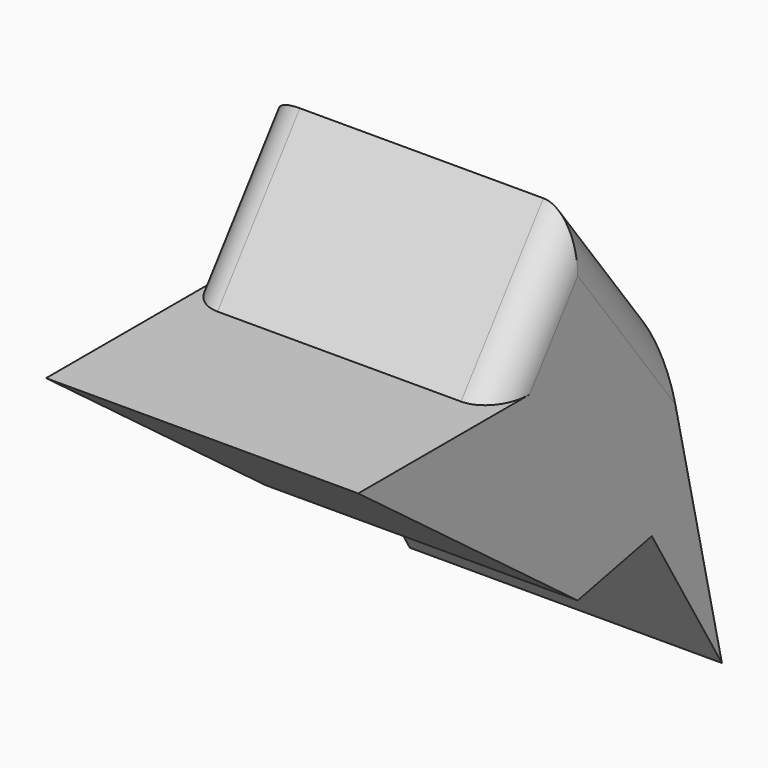
from build123d import *

# Parameters (mm, degrees)
F1_DEPTH = 46.228
F2_R     = 5.08


with BuildPart() as f1:
    # F0 (on Right) → F1 (new body)
    with BuildSketch(Plane.YZ):
        Polygon((-14.183068, 10.637301), (0, 0), (13.716886, 2.820693), (26.699892, -19.010513), (15.24, 30.48), (0, 50.8), (-15.24, 30.48), (-40.64, 30.48), align=None)
    extrude(amount=F1_DEPTH)

    # F2
    f2_edges = [f1.edges().sort_by_distance(p)[0] for p in [
        (0, -7.62, 40.64),
        (46.228, -7.62, 40.64),
        (46.228, 7.62, 40.64),
    ]]
    fillet(f2_edges, radius=F2_R)


solid = f1.part
